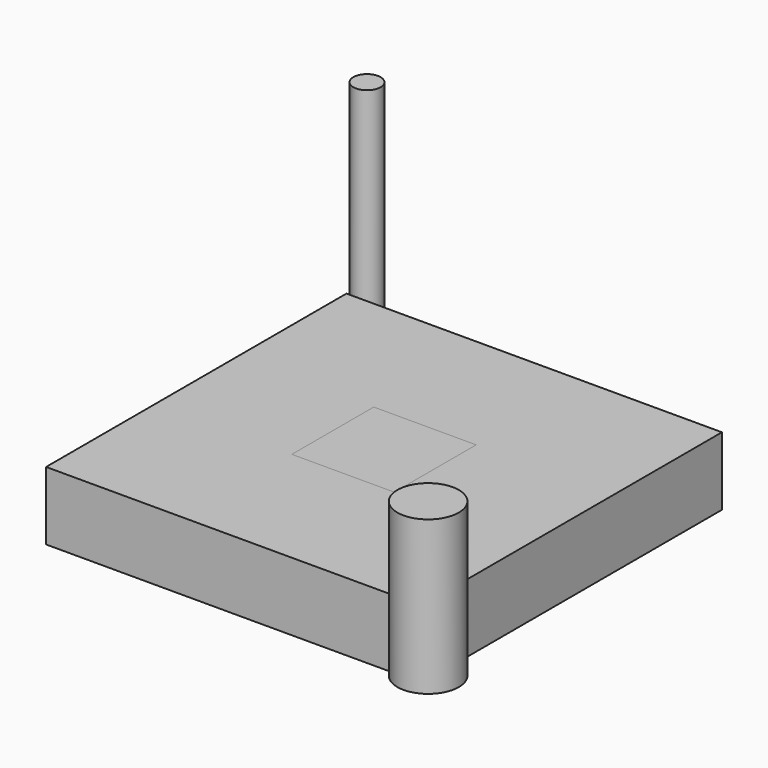
from build123d import *

# Parameters (mm, degrees)
F0_W           = 100
F0_H           = 90
F1_DEPTH       = 10
F3_D           = 8
F4_R           = 9
F5_DEPTH       = 45
F6_R           = 4
F7_DEPTH       = 60
F7_DEPTH_BACK  = 60
F8_W           = 110
F8_H           = 110
F9_DEPTH       = 10
F9_DEPTH_BACK  = 10
F11_D          = 30
F12_R          = 12.5
F13_DEPTH      = 5
F13_DEPTH_BACK = 5
F14_R          = 2.5
F15_DEPTH      = 15
F16_W          = 2.4
F16_H          = 0.85
F18_W          = 17
F18_H          = 8.5765231597
F19_DEPTH      = 1
F20_SIZE       = 1
F21_R          = 0.2
F23_D          = 5
F23_DEPTH      = 3
F23_START      = 1.9126872
F23_TIP        = 1.5021515476
F25_DEPTH      = 15
F25_DEPTH_BACK = 15


with BuildPart() as f1:
    # F0 (on Top) → F1 (new body)
    with BuildSketch(Plane.XY):
        Rectangle(F0_W, F0_H)
    extrude(amount=F1_DEPTH)

    # F3 (through all)
    with Locations(Plane.XY.offset(10)):
        with Locations((-42, 37), (42, 37), (42, -37), (-42, -37)):
            Hole(F3_D / 2)

    # F11 (through all)
    with Locations(Plane.XY.offset(10)):
        with Locations((0, 0)):
            Hole(F11_D / 2)


with BuildPart() as f5:
    # F4 (on Top) → F5 (new body)
    with BuildSketch(Plane.XY):
        with Locations((65.8727884293, -66.1879479885)):
            Circle(F4_R)
    extrude(amount=F5_DEPTH)


with BuildPart() as f7:
    # F6 (on Top) → F7 (new body, two sides)
    with BuildSketch(Plane.XY) as f7_sk:
        with Locations((-56.7623786628, 64.7153481841)):
            Circle(F6_R)
    extrude(amount=F7_DEPTH)
    extrude(f7_sk.sketch, amount=-F7_DEPTH_BACK)


with BuildPart() as f9:
    # F8 (on Top) → F9 (new body, two sides)
    with BuildSketch(Plane.XY) as f9_sk:
        Rectangle(F8_W, F8_H)
    extrude(amount=F9_DEPTH)
    extrude(f9_sk.sketch, amount=-F9_DEPTH_BACK)


with BuildPart() as f13:
    # F12 (on Top) → F13 (new body, two sides)
    with BuildSketch(Plane.XY) as f13_sk:
        with Locations((0, 14.160135775)):
            Circle(F12_R)
    extrude(amount=F13_DEPTH)
    extrude(f13_sk.sketch, amount=-F13_DEPTH_BACK)

    # F18 (on face) → F19 (cut)
    with BuildSketch(Plane.XY.offset(5)):
        with Locations((0, 17.0677408393)):
            Rectangle(F18_W, F18_H)
    extrude(amount=-F19_DEPTH, mode=Mode.SUBTRACT)

    # F20
    f20_edges = [f13.edges().sort_by_distance(p)[0] for p in [
        (-12.5, 14.160136, -5),
        (-12.5, 14.160136, 5),
    ]]
    chamfer(f20_edges, length=F20_SIZE)

    # F21
    f21_edges = [f13.edges().sort_by_distance(p)[0] for p in [
        (0, 21.356002, 5),
        (8.5, 17.067741, 5),
        (0, 12.779479, 5),
        (-8.5, 17.067741, 5),
    ]]
    fillet(f21_edges, radius=F21_R)

    # F23
    # its depths count from where the whole tool has entered the part; down to there all is cleared
    with Locations(Plane.XZ.offset(-F23_START)):
        with Locations((0, 0)):
            Hole(F23_D / 2, depth=F23_DEPTH)
            with Locations((0, 0, -(F23_DEPTH + F23_TIP / 2))):  # 118° drill point
                Cone(0, F23_D / 2, F23_TIP, mode=Mode.SUBTRACT)


with BuildPart() as f15:
    # F14 (on Front) → F15 (new body)
    with BuildSketch(Plane.XZ):
        Circle(F14_R)
    extrude(amount=F15_DEPTH)


with BuildPart() as f17:
    # F16 (on Top) → F17 (revolve)
    with BuildSketch(Plane.XY):
        with Locations((-1.2, -15.8598149988)):
            Rectangle(F16_W, F16_H)
        Polygon((0, -16.2848149988), (-2.4, -16.2848149988), (-1.25, -18.6848149988), (0, -18.6848149988), align=None)
        with BuildLine():
            Line((0, -18.6848149988), (-1.25, -18.6848149988))
            ThreePointArc((-1.25, -18.6848149988), (-0.8838834765, -19.5686984753), (0, -19.9348149988))
            Line((0, -19.9348149988), (0, -18.6848149988))
        make_face()
    revolve(axis=Axis((0, -17.6848149988, 0), (0, -1, 0)))


with BuildPart() as f25:
    # F24 (on Front) → F25 (new body, two sides)
    with BuildSketch(Plane.XZ) as f25_sk:
        Polygon((15, 10), (-15, 10), (-15, 0), (-22, 0), (-22, -5), (-15, -5), (-10, -5), (-10, 5), (10, 5), (10, -5), (15, -5), (22, -5), (22, 0), (15, 0), align=None)
    extrude(amount=F25_DEPTH)
    extrude(f25_sk.sketch, amount=-F25_DEPTH_BACK)


solid = Compound([f1.part, f5.part, f7.part, f9.part, f13.part, f15.part, f17.part, f25.part])
